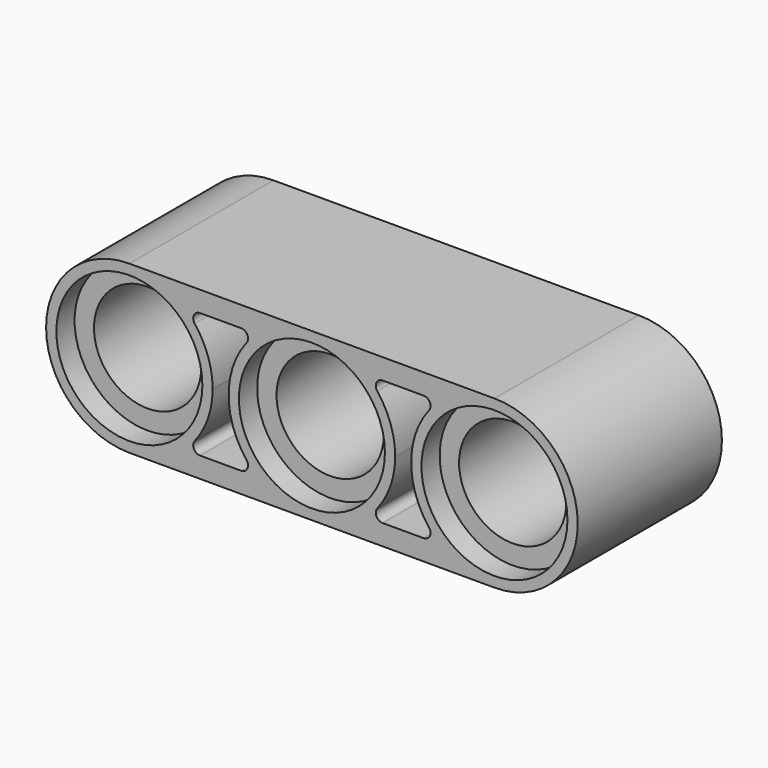
from build123d import *

# Parameters (mm, degrees)
F1_DEPTH  = 7.9
F2_R      = 3.2
F2_R_2    = 2.35
F3_DEPTH  = 1
F3_FACE_R = 2.35
F4_R      = 2.35
F5_DEPTH  = 7.901
F6_R      = 3.2
F6_R_2    = 2.35
F7_DEPTH  = 1
F9_DEPTH  = 3.6
F11_DEPTH = 3.6
F12_R     = 0.3


with BuildPart() as f1:
    # F0 (on Front) → F1 (new body)
    with BuildSketch(Plane.XZ):
        with BuildLine():
            Line((-8, -3.65), (8, -3.65))
            ThreePointArc((8, -3.65), (11.65, 0), (8, 3.65))
            Line((8, 3.65), (-8, 3.65))
            ThreePointArc((-8, 3.65), (-11.65, 0), (-8, -3.65))
        make_face()
    extrude(amount=F1_DEPTH)

    # F2 (on face) → F3 (cut)
    with BuildSketch(Plane.XZ.offset(7.9)):
        with Locations((-8, 0)):
            Circle(F2_R)
        with Locations((-8, 0)):
            Circle(F2_R_2, mode=Mode.SUBTRACT)
        Circle(F2_R)
        Circle(F2_R_2, mode=Mode.SUBTRACT)
        with Locations((8, 0)):
            Circle(F2_R)
        with Locations((8, 0)):
            Circle(F2_R_2, mode=Mode.SUBTRACT)
    extrude(amount=-F3_DEPTH, mode=Mode.SUBTRACT)

    # F3_face (on face) + F4 (on face) → F5 (cut, through all)
    with BuildSketch(Plane.XZ.offset(7.9)):
        with Locations((-8, 0)):
            Circle(F3_FACE_R)
        with Locations((8, 0)):
            Circle(F3_FACE_R)
    with BuildSketch(Plane.XZ.offset(7.9)):
        Circle(F4_R)
    extrude(amount=-F5_DEPTH, mode=Mode.SUBTRACT)

    # F6 (on face) → F7 (cut)
    with BuildSketch(Plane(origin=(0, 0, 0), x_dir=(-1, 0, 0), z_dir=(0, 1, 0))):
        with Locations((8, 0)):
            Circle(F6_R)
        with Locations((8, 0)):
            Circle(F6_R_2, mode=Mode.SUBTRACT)
        Circle(F6_R)
        Circle(F6_R_2, mode=Mode.SUBTRACT)
        with Locations((-8, 0)):
            Circle(F6_R)
        with Locations((-8, 0)):
            Circle(F6_R_2, mode=Mode.SUBTRACT)
    extrude(amount=-F7_DEPTH, mode=Mode.SUBTRACT)

    # F8 (on face) → F9 (cut)
    with BuildSketch(Plane.XZ.offset(7.9)):
        with BuildLine():
            ThreePointArc((5.6, -2.75), (4.35, 0), (5.6, 2.75))
            Line((5.6, 2.75), (2.4, 2.75))
            ThreePointArc((2.4, 2.75), (3.3228376427, 1.5103807467), (3.65, 0))
            ThreePointArc((3.65, 0), (3.3228376427, -1.5103807467), (2.4, -2.75))
            Line((2.4, -2.75), (5.6, -2.75))
        make_face()
        with BuildLine():
            ThreePointArc((-2.4, -2.75), (-3.65, 0), (-2.4, 2.75))
            Line((-2.4, 2.75), (-5.6, 2.75))
            ThreePointArc((-5.6, 2.75), (-4.6771623573, 1.5103807467), (-4.35, 0))
            ThreePointArc((-4.35, 0), (-4.6771623573, -1.5103807467), (-5.6, -2.75))
            Line((-5.6, -2.75), (-2.4, -2.75))
        make_face()
    extrude(amount=-F9_DEPTH, mode=Mode.SUBTRACT)

    # F10 (on face) → F11 (cut)
    with BuildSketch(Plane(origin=(0, 0, 0), x_dir=(-1, 0, 0), z_dir=(0, 1, 0))):
        with BuildLine():
            ThreePointArc((5.6, -2.75), (4.35, 0), (5.6, 2.75))
            Line((5.6, 2.75), (2.4, 2.75))
            ThreePointArc((2.4, 2.75), (3.3228376427, 1.5103807467), (3.65, 0))
            ThreePointArc((3.65, 0), (3.3228376427, -1.5103807467), (2.4, -2.75))
            Line((2.4, -2.75), (5.6, -2.75))
        make_face()
        with BuildLine():
            ThreePointArc((-2.4, -2.75), (-3.65, 0), (-2.4, 2.75))
            Line((-2.4, 2.75), (-5.6, 2.75))
            ThreePointArc((-5.6, 2.75), (-4.6771623573, 1.5103807467), (-4.35, 0))
            ThreePointArc((-4.35, 0), (-4.6771623573, -1.5103807467), (-5.6, -2.75))
            Line((-5.6, -2.75), (-2.4, -2.75))
        make_face()
    extrude(amount=-F11_DEPTH, mode=Mode.SUBTRACT)

    # F12
    f12_edges = [f1.edges().sort_by_distance(p)[0] for p in [
        (-5.6, -1.8, 2.75),
        (2.4, -1.8, 2.75),
        (2.4, -6.1, 2.75),
        (-5.6, -6.1, 2.75),
        (-2.4, -6.1, 2.75),
        (5.6, -6.1, 2.75),
        (-2.4, -1.8, 2.75),
        (5.6, -1.8, 2.75),
        (-5.6, -1.8, -2.75),
        (2.4, -1.8, -2.75),
        (-2.4, -1.8, -2.75),
        (5.6, -1.8, -2.75),
        (-2.4, -6.1, -2.75),
        (5.6, -6.1, -2.75),
        (-5.6, -6.1, -2.75),
        (2.4, -6.1, -2.75),
    ]]
    fillet(f12_edges, radius=F12_R)


solid = f1.part
